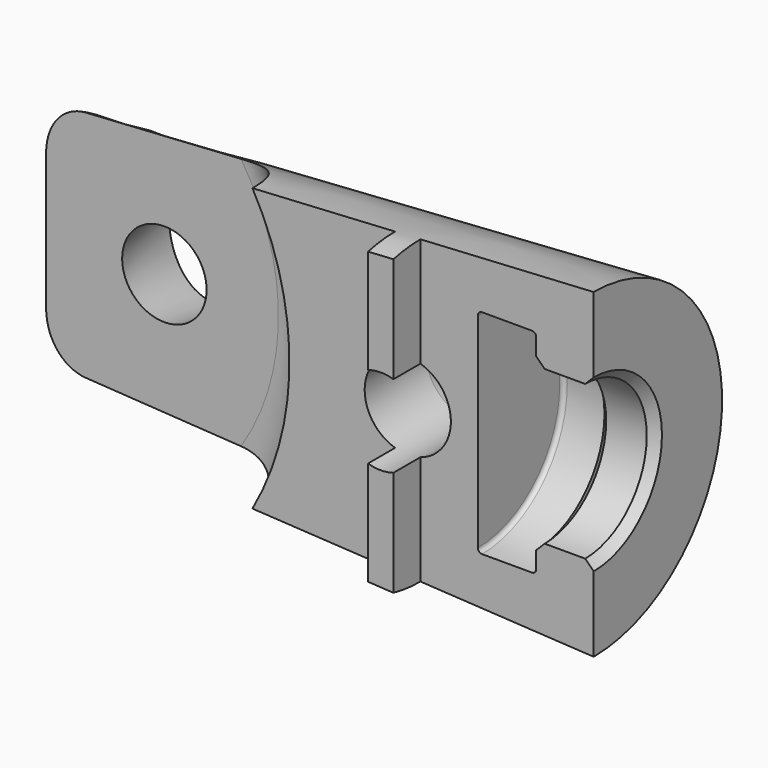
from build123d import *

# Parameters (mm, degrees)
F2_R          = 5
F6_DEPTH      = 19.0010001
F6_DEPTH_BACK = 19.0010001
F13_SIZE      = 1


with BuildPart() as f1:
    # F0 (on Front) → F1 (revolve)
    with BuildSketch(Plane.XZ):
        Polygon((0, 0), (0, 19), (-70, 15), (-70, 0), align=None)
    revolve(axis=Axis((-35, 0, 0), (1, 0, 0)))

    # F2
    f2_edges = [f1.edges().sort_by_distance(p)[0] for p in [
        (-70, 0, -15),
    ]]
    fillet(f2_edges, radius=F2_R)

    # F3 (on Top) → F4 (revolve, cut)
    with BuildSketch(Plane.XY):
        with BuildLine():
            Line((-42.5, 6.5), (-70, 6.5))
            Line((-70, 6.5), (-70, -6.5))
            Line((-70, -6.5), (-42.5, -6.5))
            ThreePointArc((-42.5, -6.5), (-36, 0), (-42.5, 6.5))
        make_face()
    revolve(axis=Axis((-70, 10.4297241849, 0), (0, -1, 0)), mode=Mode.SUBTRACT)

    # F5 (on Top) → F6 (cut, two sides)
    with BuildSketch(Plane.XY) as f6_sk:
        Polygon((-23.5, 0), (-70, 0), (-70, -19), (0, -19), (0, 0), (-20.5, 0), (-20.5, -4), (-23.5, -4), align=None)
    extrude(amount=-F6_DEPTH, mode=Mode.SUBTRACT)
    extrude(f6_sk.sketch, amount=F6_DEPTH_BACK, mode=Mode.SUBTRACT)

    # F7 (on Top) → F8 (revolve, cut)
    with BuildSketch(Plane.XY):
        with BuildLine():
            Line((-13.7, 0), (0, 0))
            Line((0, 0), (0, 9.1))
            Line((0, 9.1), (-6.8, 9.1))
            Line((-6.8, 9.1), (-6.8, 12.1))
            ThreePointArc((-6.8, 12.1), (-6.9464466094, 12.4535533906), (-7.3, 12.6))
            Line((-7.3, 12.6), (-13.2, 12.6))
            ThreePointArc((-13.2, 12.6), (-13.5535533906, 12.4535533906), (-13.7, 12.1))
            Line((-13.7, 12.1), (-13.7, 0))
        make_face()
    revolve(axis=Axis((-6.85, 0, 0), (1, 0, 0)), mode=Mode.SUBTRACT)

    # F9 (on Top) → F10 (revolve, cut)
    with BuildSketch(Plane.XY):
        Polygon((-22, 19.2228130501), (-28.8849250614, 19.2228130501), (-27.1, 9.1), (-27.1, -4), (-22, -4), align=None)
    revolve(axis=Axis((-22, 7.6114065251, 0), (0, -1, 0)), mode=Mode.SUBTRACT)

    # F11 (on Top) → F12 (revolve, cut)
    with BuildSketch(Plane.XY):
        Polygon((-56, 6.5), (-56, 21.9801377317), (-63.7295659472, 21.9801377317), (-61, 6.5), align=None)
    revolve(axis=Axis((-56, 14.2400688658, 0), (0, 1, 0)), mode=Mode.SUBTRACT)

    # F13
    f13_edges = [f1.edges().sort_by_distance(p)[0] for p in [
        (-6.8, 9.1, 0),
        (0, 9.1, 0),
    ]]
    chamfer(f13_edges, length=F13_SIZE)


solid = f1.part
